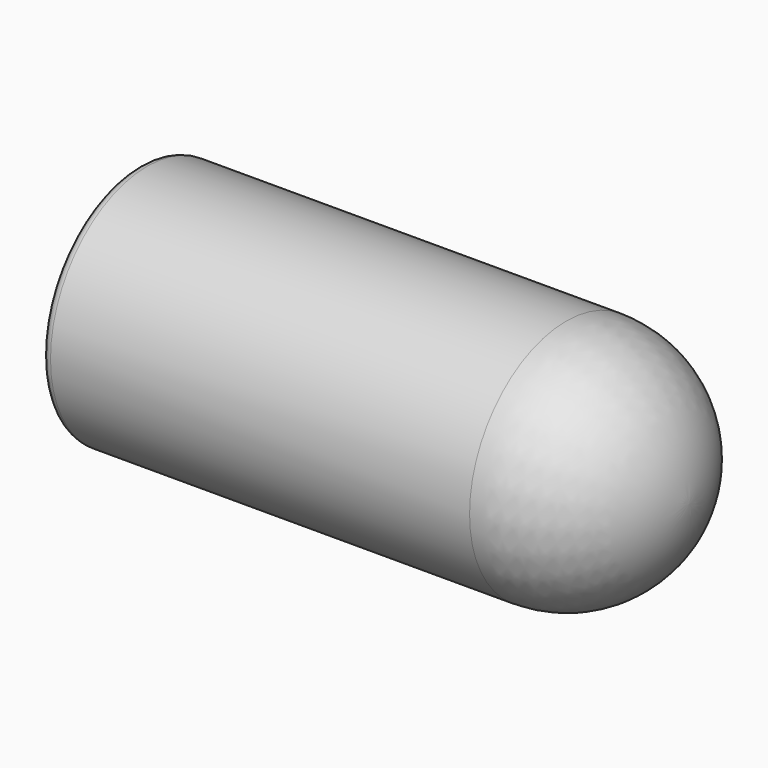
from build123d import *

# Parameters (mm, degrees)
F2_R = 2


with BuildPart() as f1:
    # F0 (on Front) → F1 (revolve)
    with BuildSketch(Plane.XZ):
        with BuildLine():
            Line((-45.593231, 14.1), (-45.593231, 0))
            Line((-45.593231, 0), (58.406769, 0))
            ThreePointArc((58.406769, 0), (50.504215, 18.479399), (31.906769, 26.1))
            Line((31.906769, 26.1), (-60.593231, 26.1))
            Line((-60.593231, 26.1), (-60.593231, 14.1))
            Line((-60.593231, 14.1), (-45.593231, 14.1))
        make_face()
    revolve(axis=Axis((-8.200877, 0, 0), (1, 0, 0)))

    # F2
    f2_edges = [f1.edges().sort_by_distance(p)[0] for p in [
        (-60.593231, 0, -26.1),
    ]]
    fillet(f2_edges, radius=F2_R)


solid = f1.part
